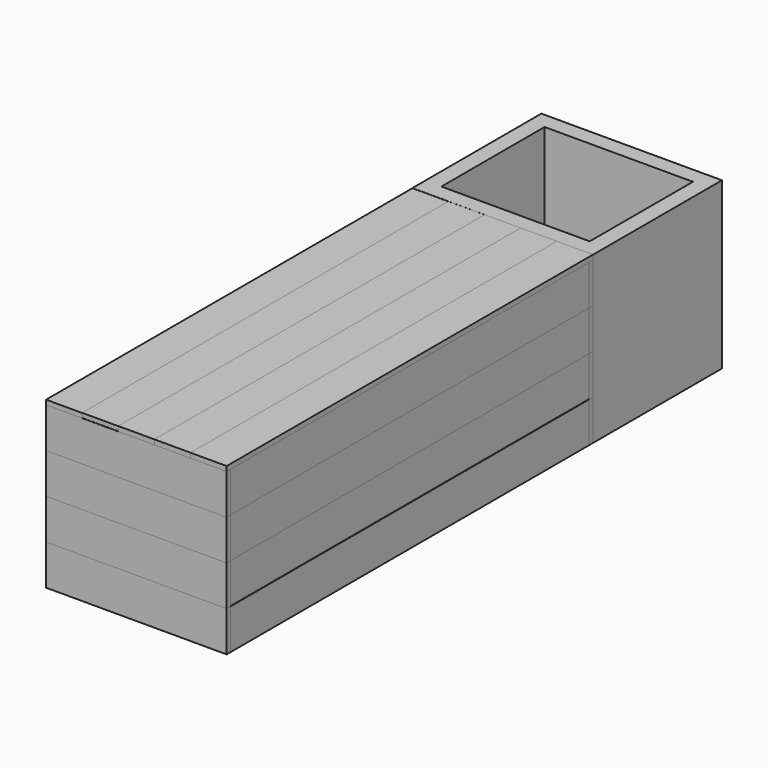
from build123d import *

# Parameters (mm, degrees)
F0_W      = 1390
F0_H      = 40
F1_DEPTH  = 40
F2_W      = 40
F2_H      = 40
F3_DEPTH  = 490
F4_W      = 40
F4_H      = 40
F5_DEPTH  = 1310
F6_W      = 40
F6_H      = 40
F7_DEPTH  = 420
F8_W      = 530
F8_H      = 1390
F8_W_2    = 450
F8_H_2    = 1310
F9_DEPTH  = 40
F10_W     = 40
F10_H     = 40
F11_DEPTH = 420
F12_W     = 40
F12_H     = 40
F13_DEPTH = 420
F15_W     = 1390
F15_H     = 125
F16_DEPTH = 15
F17_W     = 1390
F17_H     = 125
F18_DEPTH = 15
F19_W     = 1390
F19_H     = 125
F20_DEPTH = 15
F21_W     = 1390
F21_H     = 125
F22_DEPTH = 15
F23_W     = 1390
F23_H     = 125
F24_DEPTH = 15
F25_W     = 1390
F25_H     = 125.050753
F26_DEPTH = 15
F27_W     = 1390
F27_H     = 125
F28_DEPTH = 15
F29_W     = 1390
F29_H     = 125
F30_DEPTH = 15
F32_W     = 560
F32_H     = 125
F33_DEPTH = 15
F34_W     = 560
F34_H     = 125
F35_DEPTH = 15
F36_W     = 560
F36_H     = 125
F37_DEPTH = 15
F38_W     = 560
F38_H     = 125
F39_DEPTH = 15
F42_W     = 112
F42_H     = 1420
F43_DEPTH = 14.2
F44_W     = 112
F44_H     = 1420
F45_DEPTH = 15
F47_W     = 112
F47_H     = 1420
F48_DEPTH = 14
F49_W     = 112
F49_H     = 1420
F50_DEPTH = 15
F51_W     = 111.991847
F51_H     = 1420
F52_DEPTH = 15
F53_W     = 560
F53_H     = 500
F54_DEPTH = 514
F55_W     = 460
F55_H     = 400
F56_DEPTH = 490


with BuildPart() as f1:
    # F0 (on Right) → F1 (new body)
    with BuildSketch(Plane.YZ):
        with Locations((695, 20)):
            Rectangle(F0_W, F0_H)
    extrude(amount=F1_DEPTH)

    # F2 (on face) → F3 (join)
    with BuildSketch(Plane(origin=(0, 0, 0), x_dir=(0, -1, 0), z_dir=(-1, 0, 0))):
        with Locations((-1370, 20)):
            Rectangle(F2_W, F2_H)
        with Locations((-20, 20)):
            Rectangle(F2_W, F2_H)
    extrude(amount=F3_DEPTH)

    # F4 (on face) → F5 (join)
    with BuildSketch(Plane.XZ.offset(-1350)):
        with Locations((-470, 20)):
            Rectangle(F4_W, F4_H)
    extrude(amount=F5_DEPTH)

    # F6 (on face) → F7 (join)
    with BuildSketch(Plane.XY.offset(40)):
        with Locations((-470, 1370)):
            Rectangle(F6_W, F6_H)
        with Locations((20, 1370)):
            Rectangle(F6_W, F6_H)
        with Locations((20, 20)):
            Rectangle(F6_W, F6_H)
        with Locations((-470, 20)):
            Rectangle(F6_W, F6_H)
    extrude(amount=F7_DEPTH)

    # F8 (on face) → F9 (join)
    with BuildSketch(Plane.XY.offset(460)):
        with Locations((-225, 695)):
            Rectangle(F8_W, F8_H)
        with Locations((-225, 695)):
            Rectangle(F8_W_2, F8_H_2, mode=Mode.SUBTRACT)
    extrude(amount=F9_DEPTH)

    # F10 (on face) → F11 (join)
    with BuildSketch(Plane.XY.offset(40)):
        with Locations((-470, 1015)):
            Rectangle(F10_W, F10_H)
        with Locations((-470, 375)):
            Rectangle(F10_W, F10_H)
    extrude(amount=F11_DEPTH)

    # F12 (on face) → F13 (join)
    with BuildSketch(Plane.XY.offset(40)):
        with Locations((20, 1015)):
            Rectangle(F12_W, F12_H)
        with Locations((20, 375)):
            Rectangle(F12_W, F12_H)
    extrude(amount=F13_DEPTH)

    # F47 (on face) → F48 (join)
    with BuildSketch(Plane.XY.offset(500)):
        with Locations((-336.986673, 694.804775)):
            Rectangle(F47_W, F47_H)
    extrude(amount=F48_DEPTH)


with BuildPart() as f16:
    # F15 (on face) → F16 (new body)
    with BuildSketch(Plane.YZ.offset(40)):
        with Locations((695, 437.5)):
            Rectangle(F15_W, F15_H)
    extrude(amount=F16_DEPTH)


with BuildPart() as f18:
    # F17 (on face) → F18 (new body)
    with BuildSketch(Plane.YZ.offset(40)):
        with Locations((695, 62.5)):
            Rectangle(F17_W, F17_H)
    extrude(amount=F18_DEPTH)


with BuildPart() as f20:
    # F19 (on face) → F20 (new body)
    with BuildSketch(Plane.YZ.offset(40)):
        with Locations((695, 188.696638)):
            Rectangle(F19_W, F19_H)
    extrude(amount=F20_DEPTH)


with BuildPart() as f22:
    # F21 (on face) → F22 (new body)
    with BuildSketch(Plane.YZ.offset(40)):
        with Locations((695, 312.5)):
            Rectangle(F21_W, F21_H)
    extrude(amount=F22_DEPTH)


with BuildPart() as f24:
    # F23 (on face) → F24 (new body)
    with BuildSketch(Plane(origin=(-490, 0, 0), x_dir=(0, -1, 0), z_dir=(-1, 0, 0))):
        with Locations((-695, 62.5)):
            Rectangle(F23_W, F23_H)
    extrude(amount=F24_DEPTH)


with BuildPart() as f26:
    # F25 (on face) → F26 (new body)
    with BuildSketch(Plane(origin=(-490, 0, 0), x_dir=(0, -1, 0), z_dir=(-1, 0, 0))):
        with Locations((-695, 187.474624)):
            Rectangle(F25_W, F25_H)
    extrude(amount=F26_DEPTH)


with BuildPart() as f28:
    # F27 (on face) → F28 (new body)
    with BuildSketch(Plane(origin=(-490, 0, 0), x_dir=(0, -1, 0), z_dir=(-1, 0, 0))):
        with Locations((-695, 312.229292)):
            Rectangle(F27_W, F27_H)
    extrude(amount=F28_DEPTH)


with BuildPart() as f30:
    # F29 (on face) → F30 (new body)
    with BuildSketch(Plane(origin=(-490, 0, 0), x_dir=(0, -1, 0), z_dir=(-1, 0, 0))):
        with Locations((-695, 436.783221)):
            Rectangle(F29_W, F29_H)
    extrude(amount=F30_DEPTH)


with BuildPart() as f33:
    # F32 (on face) → F33 (new body)
    with BuildSketch(Plane.XZ):
        with Locations((-225, 62.5)):
            Rectangle(F32_W, F32_H)
    extrude(amount=F33_DEPTH)


with BuildPart() as f35:
    # F34 (on face) → F35 (new body)
    with BuildSketch(Plane.XZ):
        with Locations((-225, 187.449247)):
            Rectangle(F34_W, F34_H)
    extrude(amount=F35_DEPTH)


with BuildPart() as f37:
    # F36 (on face) → F37 (new body)
    with BuildSketch(Plane.XZ):
        with Locations((-225, 312.229292)):
            Rectangle(F36_W, F36_H)
    extrude(amount=F37_DEPTH)


with BuildPart() as f39:
    # F38 (on face) → F39 (new body)
    with BuildSketch(Plane.XZ):
        with Locations((-225, 436.783221)):
            Rectangle(F38_W, F38_H)
    extrude(amount=F39_DEPTH)


with BuildPart() as f40_1:
    # F40: instance of F39
    add(f39.part.mirror(Plane(origin=(-225, 695, 250), x_dir=(1, 0, 0), z_dir=(0, -1, 0))))


with BuildPart() as f40_2:
    # F40: instance of F37
    add(f37.part.mirror(Plane(origin=(-225, 695, 250), x_dir=(1, 0, 0), z_dir=(0, -1, 0))))


with BuildPart() as f40_3:
    # F40: instance of F35
    add(f35.part.mirror(Plane(origin=(-225, 695, 250), x_dir=(1, 0, 0), z_dir=(0, -1, 0))))


with BuildPart() as f40_4:
    # F40: instance of F33
    add(f33.part.mirror(Plane(origin=(-225, 695, 250), x_dir=(1, 0, 0), z_dir=(0, -1, 0))))


with BuildPart() as f43:
    # F42 (on face) → F43 (new body)
    with BuildSketch(Plane.XY.offset(499.283221)):
        with Locations((-449, 695)):
            Rectangle(F42_W, F42_H)
    extrude(amount=F43_DEPTH)


with BuildPart() as f45:
    # F44 (on face) → F45 (new body)
    with BuildSketch(Plane.XY.offset(499.283221)):
        with Locations((-1, 695)):
            Rectangle(F44_W, F44_H)
    extrude(amount=F45_DEPTH)


with BuildPart() as f50:
    # F49 (on face) → F50 (new body)
    with BuildSketch(Plane.XY.offset(499.283221)):
        with Locations((-224.987579, 694.956858)):
            Rectangle(F49_W, F49_H)
    extrude(amount=F50_DEPTH)


with BuildPart() as f52:
    # F51 (on face) → F52 (new body)
    with BuildSketch(Plane.XY.offset(499.283221)):
        with Locations((-112.994324, 694.979473)):
            Rectangle(F51_W, F51_H)
    extrude(amount=F52_DEPTH)


with BuildPart() as f54:
    # F53 (on face) → F54 (new body)
    with BuildSketch(Plane(origin=(0, 0, 0), x_dir=(1, 0, 0), z_dir=(0, 0, -1))):
        with Locations((-225, -1655)):
            Rectangle(F53_W, F53_H)
    extrude(amount=-F54_DEPTH)

    # F55 (on face) → F56 (cut)
    with BuildSketch(Plane.XY.offset(514)):
        with Locations((-225, 1655)):
            Rectangle(F55_W, F55_H)
    extrude(amount=-F56_DEPTH, mode=Mode.SUBTRACT)


solid = Compound([f1.part, f16.part, f18.part, f20.part, f22.part, f24.part, f26.part, f28.part, f30.part, f33.part, f35.part, f37.part, f39.part, f40_1.part, f40_2.part, f40_3.part, f40_4.part, f43.part, f45.part, f50.part, f52.part, f54.part])
